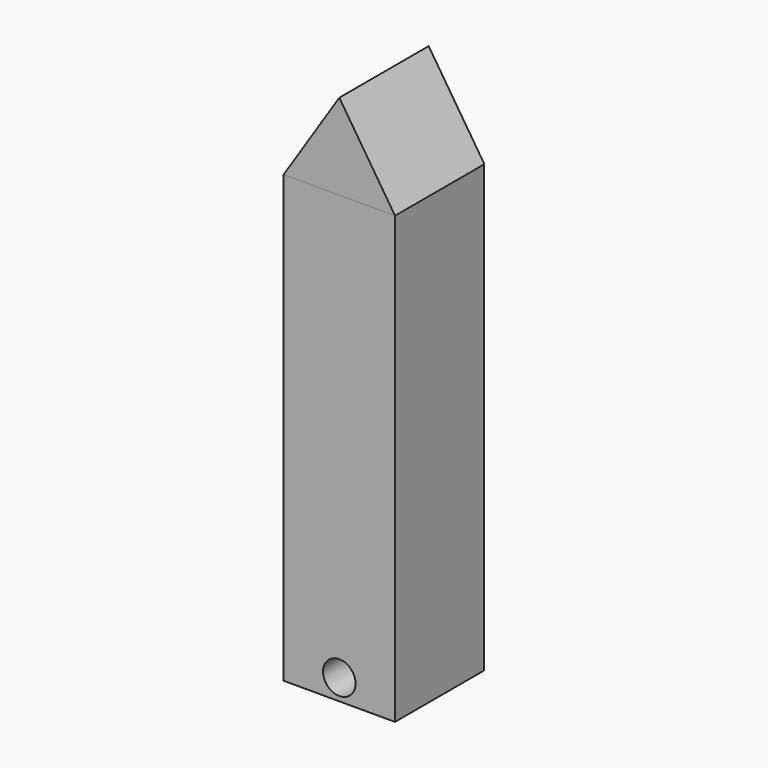
from build123d import *

# Parameters (mm, degrees)
F0_W     = 76.2
F0_H     = 76.2
F1_DEPTH = 304.8
F3_DEPTH = 76.40143
F4_R     = 11.1125
F5_DEPTH = 286.60755


with BuildPart() as f1:
    # F0 (on Top) → F1 (new body)
    with BuildSketch(Plane.XY):
        Rectangle(F0_W, F0_H)
    extrude(amount=F1_DEPTH)

    # F4 (on face) → F5 (cut)
    with BuildSketch(Plane.XZ.offset(38.1)):
        with Locations((0, 14.2875)):
            Circle(F4_R)
    extrude(amount=-F5_DEPTH, mode=Mode.SUBTRACT)


with BuildPart() as f3:
    # F2 (on face) → F3 (new body)
    with BuildSketch(Plane.XZ.offset(38.1)):
        Polygon((0, 363.499522), (-38.1, 304.8), (38.1, 304.8), align=None)
    extrude(amount=-F3_DEPTH)


solid = Compound([f1.part, f3.part])
